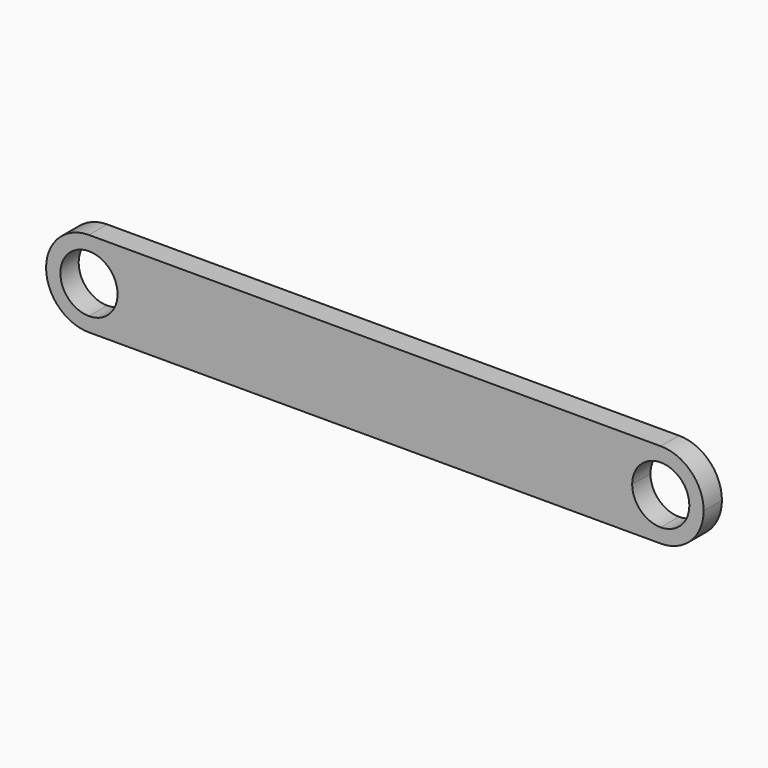
from build123d import *

# Parameters (mm, degrees)
F1_DEPTH = 5.08


with BuildPart() as f1:
    # F0 (on Front) → F1 (new body)
    with BuildSketch(Plane.XZ):
        with BuildLine():
            Line((53.975, 0), (0, 0))
            Line((0, 0), (-53.975, 0))
            ThreePointArc((-53.975, 0), (-56.7648079092, -6.7351920908), (-63.5, -9.525))
            Line((-63.5, -9.525), (63.5, -9.525))
            ThreePointArc((63.5, -9.525), (56.7648079092, -6.7351920908), (53.975, 0))
        make_face()
        with BuildLine():
            Line((-53.975, 0), (0, 0))
            Line((0, 0), (53.975, 0))
            ThreePointArc((53.975, 0), (56.7648079092, 6.7351920908), (63.5, 9.525))
            Line((63.5, 9.525), (-63.5, 9.525))
            ThreePointArc((-63.5, 9.525), (-56.7648079092, 6.7351920908), (-53.975, 0))
        make_face()
        with BuildLine():
            ThreePointArc((-63.5, -9.525), (-56.7648079092, -6.7351920908), (-53.975, 0))
            Line((-53.975, 0), (-57.15, 0))
            ThreePointArc((-57.15, 0), (-59.0098719395, -4.4901280605), (-63.5, -6.35))
            Line((-63.5, -6.35), (-63.5, -9.525))
        make_face()
        with BuildLine():
            Line((-57.15, 0), (-53.975, 0))
            ThreePointArc((-53.975, 0), (-56.7648079092, 6.7351920908), (-63.5, 9.525))
            Line((-63.5, 9.525), (-63.5, 6.35))
            ThreePointArc((-63.5, 6.35), (-59.0098719395, 4.4901280605), (-57.15, 0))
        make_face()
        with BuildLine():
            ThreePointArc((63.5, 9.525), (56.7648079092, 6.7351920908), (53.975, 0))
            Line((53.975, 0), (57.15, 0))
            ThreePointArc((57.15, 0), (59.0098719395, 4.4901280605), (63.5, 6.35))
            Line((63.5, 6.35), (63.5, 9.525))
        make_face()
        with BuildLine():
            Line((57.15, 0), (53.975, 0))
            ThreePointArc((53.975, 0), (56.7648079092, -6.7351920908), (63.5, -9.525))
            Line((63.5, -9.525), (63.5, -6.35))
            ThreePointArc((63.5, -6.35), (59.0098719395, -4.4901280605), (57.15, 0))
        make_face()
        with BuildLine():
            Line((-63.5, 6.35), (-63.5, 9.525))
            ThreePointArc((-63.5, 9.525), (-73.025, 0), (-63.5, -9.525))
            Line((-63.5, -9.525), (-63.5, -6.35))
            ThreePointArc((-63.5, -6.35), (-69.85, 0), (-63.5, 6.35))
        make_face()
        with BuildLine():
            ThreePointArc((73.025, 0), (70.2351920908, 6.7351920908), (63.5, 9.525))
            Line((63.5, 9.525), (63.5, 6.35))
            ThreePointArc((63.5, 6.35), (67.9901280605, 4.4901280605), (69.85, 0))
            ThreePointArc((69.85, 0), (67.9901280605, -4.4901280605), (63.5, -6.35))
            Line((63.5, -6.35), (63.5, -9.525))
            ThreePointArc((63.5, -9.525), (70.2351920908, -6.7351920908), (73.025, 0))
        make_face()
    extrude(amount=F1_DEPTH)


solid = f1.part
